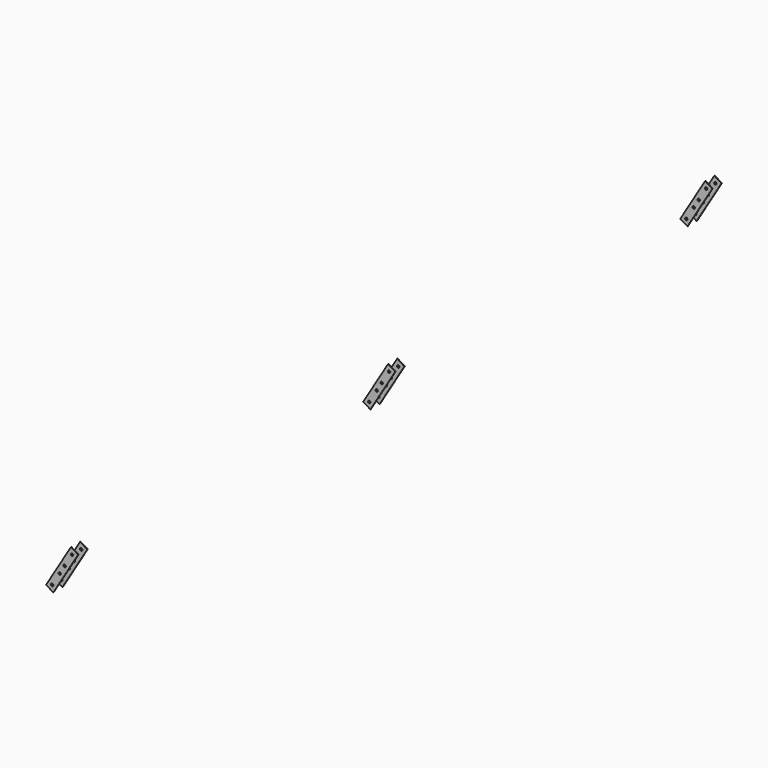
from build123d import *

# Parameters (mm, degrees)
SKETCH016_R      = 5
PAD014_DEPTH     = 2.5
ARRAY006_Y_COUNT = 2
ARRAY006_Y_PITCH = 47.5
ARRAY007_Y_COUNT = 3
ARRAY007_Y_PITCH = 1645


with BuildPart() as part:
    # Sketch016 → Pad014 (new body)
    with BuildSketch(Plane.XZ.offset(-47.5)):
        Polygon((-788.354552, 163.321784), (-891.338091, -8.12614), (-876.323758, -17.144792), (-861.309425, -26.163444), (-792.360352, 88.623593), (-758.325886, 145.28448), (-773.340219, 154.303132), align=None)
        with Locations((-866.025404, 0)):
            Circle(SKETCH016_R, mode=Mode.SUBTRACT)
        with Locations((-835.130342, 51.434377)):
            Circle(SKETCH016_R, mode=Mode.SUBTRACT)
        with Locations((-814.533634, 85.723962)):
            Circle(SKETCH016_R, mode=Mode.SUBTRACT)
        with Locations((-783.638572, 137.158339)):
            Circle(SKETCH016_R, mode=Mode.SUBTRACT)
    extrude(amount=PAD014_DEPTH)

    # Array006 Y: part ×2


with BuildPart() as part_1:
    add(part.part)
    with Locations(*[(0, -i * ARRAY006_Y_PITCH, 0) for i in range(1, ARRAY006_Y_COUNT)]):
        add(part.part)

    # Array007 Y: part ×3


with BuildPart() as part_2:
    add(part_1.part)
    with Locations(*[(0, i * ARRAY007_Y_PITCH, 0) for i in range(1, ARRAY007_Y_COUNT)]):
        add(part_1.part)


solid = part_2.part
